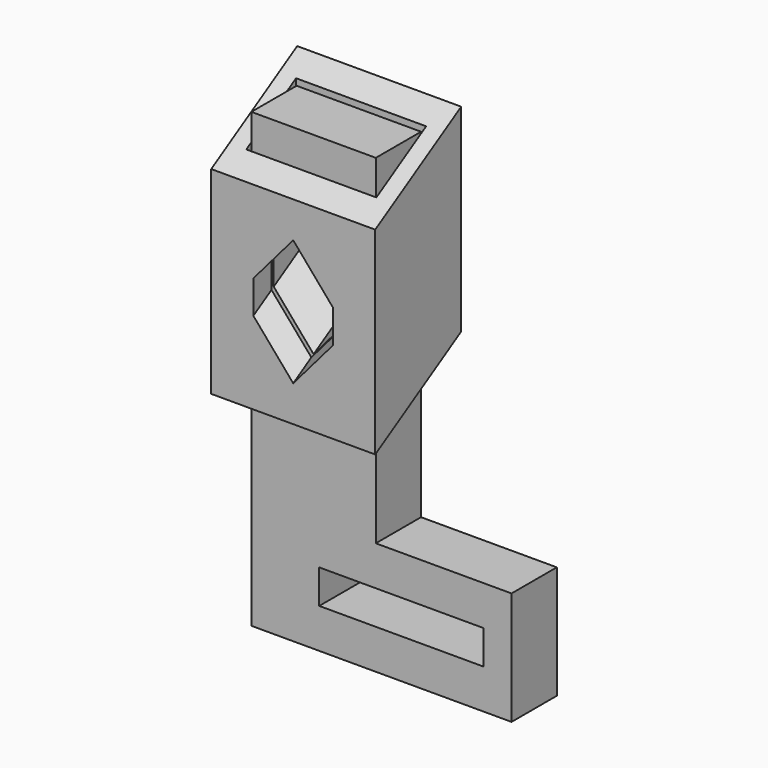
from build123d import *

# Parameters (mm, degrees)
F0_W          = 22
F0_H          = 10
F1_DEPTH      = 70
F1_DEPTH_BACK = 10
F2_START      = 20
F0_W_2        = 29
F0_H_2        = 19
F0_W_3        = 23
F0_H_3        = 11
F2_DEPTH      = 60
F4_DEPTH      = 25
F5_ANGLE      = -31
F3_W          = 40
F3_H          = 30
F7_DEPTH      = 25
F8_ANGLE      = -31
F10_W         = 24
F10_H         = 20
F11_DEPTH     = 5
F12_W         = 29
F12_H         = 6
F13_DEPTH     = 25


with BuildPart() as f1:
    # F0 (on Top) → F1 (new body, two sides)
    with BuildSketch(Plane.XY) as f1_sk:
        Rectangle(F0_W, F0_H)
    extrude(amount=F1_DEPTH)
    extrude(f1_sk.sketch, amount=-F1_DEPTH_BACK)


with BuildPart() as f2:
    # F0 (on Top) → F2 (new body)
    with BuildSketch(Plane.XY.offset(F2_START)):
        Rectangle(F0_W_2, F0_H_2)
        Rectangle(F0_W_3, F0_H_3, mode=Mode.SUBTRACT)
    extrude(amount=F2_DEPTH)


with BuildPart() as f4:
    # F3 (on Front) → F4 (new body, symmetric)
    with BuildSketch(Plane.XZ):
        Polygon((7.045941546, 52.5), (0, 59.545941546), (-7.045941546, 52.5), (-7.045941546, 47.5), (0, 40.454058454), (7.045941546, 47.5), align=None)
    extrude(amount=F4_DEPTH, both=True)


with BuildPart() as f4_1:
    # F5: moved
    add(f4.part.rotate(Axis((-13.5051338822, 0, 50), (-1, 0, 0)), F5_ANGLE))


with BuildPart() as f2_1:
    add(f2.part)

    # F6: cut F4
    add(f4_1.part, mode=Mode.SUBTRACT)


with BuildPart() as f1_1:
    add(f1.part)

    # F6: cut F4
    add(f4_1.part, mode=Mode.SUBTRACT)

    # F10 (on Front) → F11 (join, symmetric)
    with BuildSketch(Plane.XZ):
        with Locations((23, 0)):
            Rectangle(F10_W, F10_H)
    extrude(amount=F11_DEPTH, both=True)

    # F12 (on face) → F13 (cut)
    with BuildSketch(Plane(origin=(0, 5, 0), x_dir=(-1, 0, 0), z_dir=(0, 1, 0))):
        with Locations((-15.5, 0)):
            Rectangle(F12_W, F12_H)
    extrude(amount=-F13_DEPTH, mode=Mode.SUBTRACT)


with BuildPart() as f7:
    # F3 (on Front) → F7 (new body, symmetric)
    with BuildSketch(Plane.XZ):
        with Locations((0, 50)):
            Rectangle(F3_W, F3_H)
        Polygon((-7.045941546, 52.5), (0, 59.545941546), (7.045941546, 52.5), (7.045941546, 47.5), (0, 40.454058454), (-7.045941546, 47.5), align=None, mode=Mode.SUBTRACT)
        Polygon((7.045941546, 52.5), (0, 59.545941546), (-7.045941546, 52.5), (-7.045941546, 47.5), (0, 40.454058454), (7.045941546, 47.5), align=None)
    extrude(amount=F7_DEPTH, both=True)


with BuildPart() as f7_1:
    # F8: moved
    add(f7.part.rotate(Axis((-13.5051338822, 0, 50), (-1, 0, 0)), F8_ANGLE))

    # F9: intersect F2
    add(f2_1.part, mode=Mode.INTERSECT)


solid = Compound([f1_1.part, f7_1.part])
